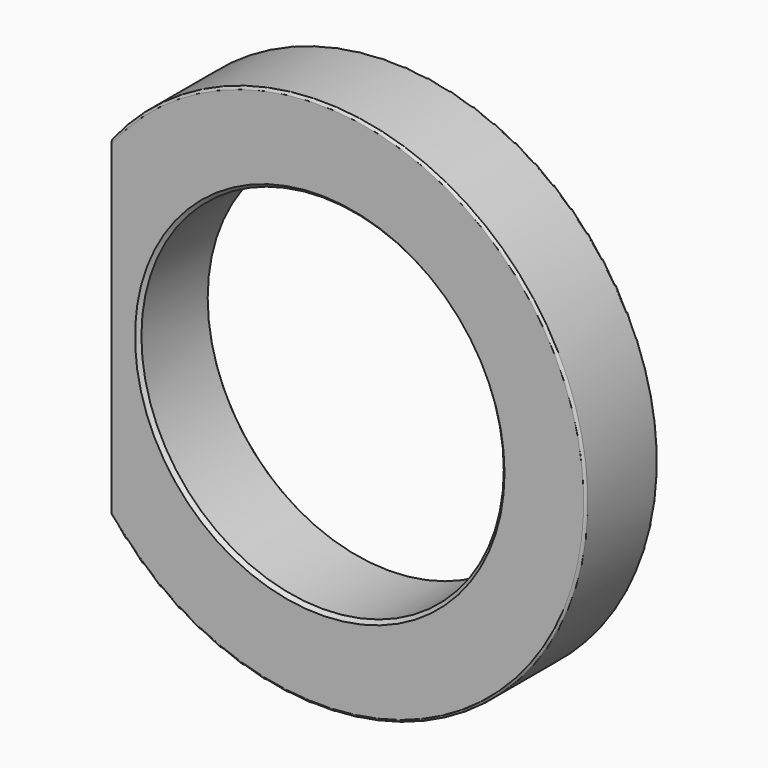
from build123d import *

# Parameters (mm, degrees)
F0_R     = 19.4437
F1_DEPTH = 9.652
F2_SIZE  = 0.381
F3_R     = 0.254


with BuildPart() as f1:
    # F0 (on Front) → F1 (new body)
    with BuildSketch(Plane.XZ):
        with BuildLine():
            Line((-22.352, 17.802211), (-22.352, -17.802211))
            ThreePointArc((-22.352, -17.802211), (28.575, 0), (-22.352, 17.802211))
        make_face()
        Circle(F0_R, mode=Mode.SUBTRACT)
    extrude(amount=F1_DEPTH)

    # F2
    f2_edges = [f1.edges().sort_by_distance(p)[0] for p in [
        (-19.4437, -9.652, 0),
        (-19.4437, 0, 0),
    ]]
    chamfer(f2_edges, length=F2_SIZE)

    # F3
    f3_edges = [f1.edges().sort_by_distance(p)[0] for p in [
        (28.575, -9.652, 0),
        (28.575, 0, 0),
    ]]
    fillet(f3_edges, radius=F3_R)


solid = f1.part
